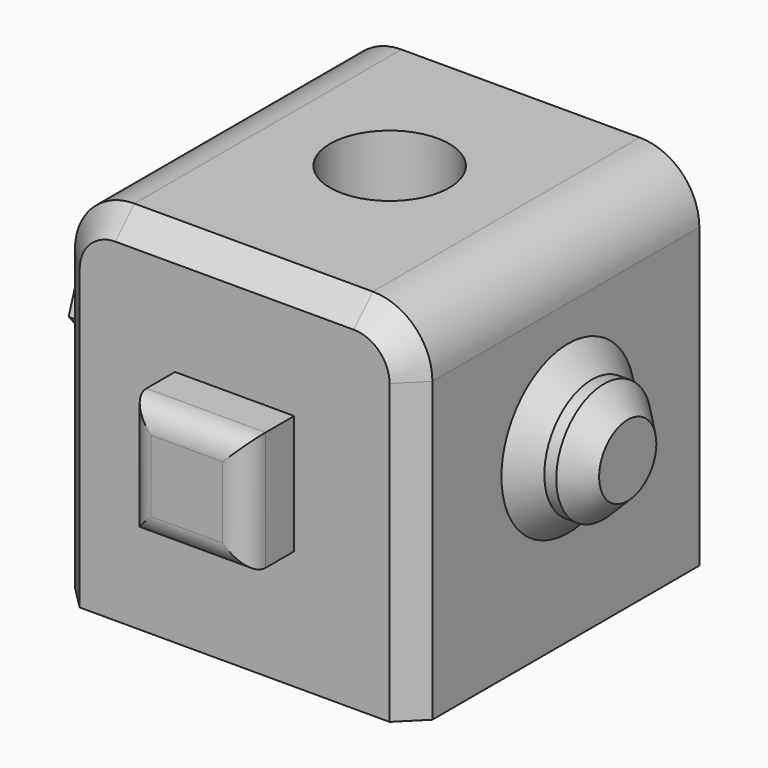
from build123d import *

# Parameters (mm, degrees)
F0_W      = 76.2
F0_H      = 76.2
F1_DEPTH  = 76.2
F3_D      = 25.4
F4_W      = 25.4
F4_H      = 25.4
F5_DEPTH  = 12.7
F6_R      = 12.7
F7_DEPTH  = 12.7
F8_R      = 12.7
F9_R      = 12.7
F10_SIZE  = 5.08
F11_SIZE  = 5.08
F12_R     = 5.08
F14_DEPTH = 7.62
F16_DEPTH = 7.62
F18_DEPTH = 7.62
F20_DEPTH = 7.62
F22_DEPTH = 7.62
F24_DEPTH = 7.62


with BuildPart() as f1:
    # F0 (on Front) → F1 (new body)
    with BuildSketch(Plane.XZ):
        with Locations((38.1, 38.1)):
            Rectangle(F0_W, F0_H)
    extrude(amount=F1_DEPTH)

    # F3 (through all)
    with Locations(Plane.XY.offset(76.2)):
        with Locations((37.350509, -33.948544)):
            Hole(F3_D / 2)

    # F4 (on face) → F5 (join)
    with BuildSketch(Plane.XZ.offset(76.2)):
        with Locations((38.1, 38.1)):
            Rectangle(F4_W, F4_H)
    extrude(amount=F5_DEPTH)

    # F6 (on face) → F7 (join)
    with BuildSketch(Plane.YZ.offset(76.2)):
        with Locations((-34.955569, 38.1)):
            Circle(F6_R)
    extrude(amount=F7_DEPTH)

    # F8
    f8_edges = [f1.edges().sort_by_distance(p)[0] for p in [
        (0, -38.1, 76.2),
    ]]
    fillet(f8_edges, radius=F8_R)

    # F9
    f9_edges = [f1.edges().sort_by_distance(p)[0] for p in [
        (76.2, -38.1, 76.2),
    ]]
    fillet(f9_edges, radius=F9_R)

    # F10
    f10_edges = [f1.edges().sort_by_distance(p)[0] for p in [
        (0, -76.2, 31.75),
    ]]
    chamfer(f10_edges, length=F10_SIZE)

    # F11
    f11_edges = [f1.edges().sort_by_distance(p)[0] for p in [
        (82.55, -22.255569, 38.1),
        (76.2, -47.655569, 38.1),
        (88.9, -47.655569, 38.1),
    ]]
    chamfer(f11_edges, length=F11_SIZE)

    # F12
    f12_edges = [f1.edges().sort_by_distance(p)[0] for p in [
        (38.1, -88.9, 50.8),
        (25.4, -88.9, 38.1),
        (38.1, -88.9, 25.4),
        (50.8, -88.9, 38.1),
    ]]
    fillet(f12_edges, radius=F12_R)

    # F13 (on face) → F14 (join)
    with BuildSketch(Plane(origin=(0, 0, 0), x_dir=(0, -1, 0), z_dir=(-1, 0, 0))):
        Polygon((25.23751, 33.285815), (31.410398, 33.285815), (35.259131, 38.111974), (33.885534, 44.130095), (28.323954, 46.808411), (22.762373, 44.130095), (21.388777, 38.111974), align=None)
    extrude(amount=F14_DEPTH)

    # F15 (on face) → F16 (join)
    with BuildSketch(Plane(origin=(0, 0, 0), x_dir=(0, -1, 0), z_dir=(-1, 0, 0))):
        Polygon((50.743747, 16.11791), (55.522759, 21.096045), (54.610361, 27.936243), (48.693608, 31.487695), (42.227936, 29.076085), (40.082127, 22.517406), (43.87202, 16.750475), align=None)
    extrude(amount=F16_DEPTH)

    # F17 (on face) → F18 (join)
    with BuildSketch(Plane(origin=(0, 0, 0), x_dir=(0, -1, 0), z_dir=(-1, 0, 0))):
        Polygon((57.059099, 37.974671), (63.266012, 45.136495), (60.167147, 54.092752), (50.861369, 55.887184), (44.654456, 48.72536), (47.753321, 39.769104), align=None)
    extrude(amount=F18_DEPTH)

    # F19 (on face) → F20 (join)
    with BuildSketch(Plane(origin=(0, 0, 0), x_dir=(0, -1, 0), z_dir=(-1, 0, 0))):
        Polygon((17.242883, 6.356385), (22.038512, 11.837104), (21.55408, 19.10358), (16.07336, 23.89921), (8.806884, 23.414778), (4.011255, 17.934058), (4.495687, 10.667582), (9.976407, 5.871953), align=None)
    extrude(amount=F20_DEPTH)

    # F21 (on face) → F22 (join)
    with BuildSketch(Plane(origin=(0, 0, 0), x_dir=(0, -1, 0), z_dir=(-1, 0, 0))):
        Polygon((11.161887, 45.752136), (17.368809, 51.004144), (15.923897, 59.0055), (8.272064, 61.754847), (2.065142, 56.502839), (3.510054, 48.501483), align=None)
    extrude(amount=F22_DEPTH)

    # F23 (on face) → F24 (join)
    with BuildSketch(Plane(origin=(0, 0, 0), x_dir=(0, -1, 0), z_dir=(-1, 0, 0))):
        Polygon((58.197337, 4.173143), (61.300796, 8.231508), (59.337879, 12.948366), (54.271501, 13.606857), (51.168042, 9.548492), (53.13096, 4.831635), align=None)
    extrude(amount=F24_DEPTH)


solid = f1.part
